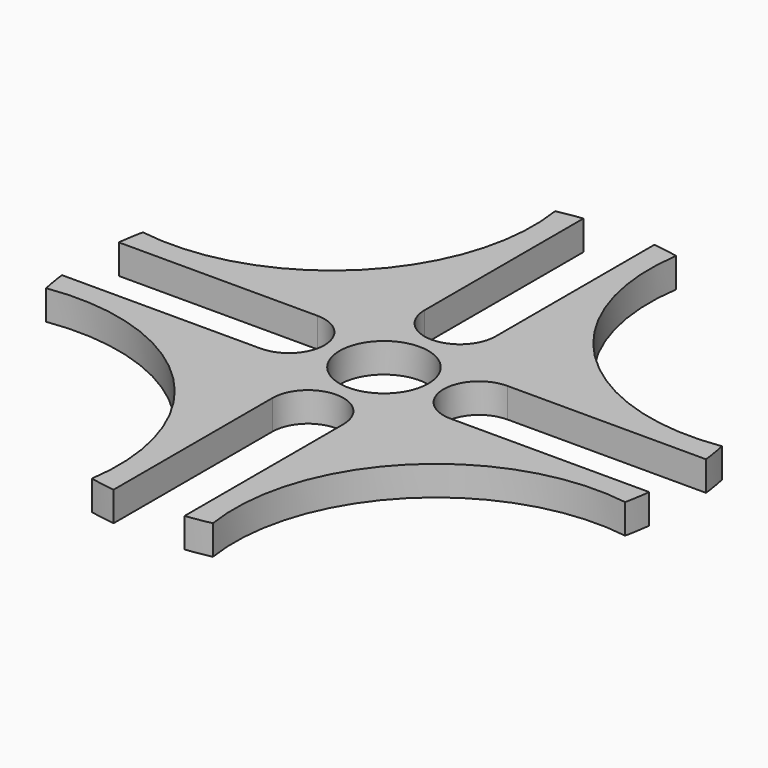
from build123d import *

# Parameters (mm, degrees)
F0_R     = 4.7625
F1_DEPTH = 3.175


with BuildPart() as f1:
    # F0 (on Top) → F1 (new body)
    with BuildSketch(Plane.XY):
        with BuildLine():
            ThreePointArc((-6.49331, 31.078922), (-12.572359, 12.572359), (-31.078922, 6.49331))
            ThreePointArc((-31.078922, 6.49331), (-31.328488, 5.156386), (-31.520571, 3.81))
            Line((-31.520571, 3.81), (-10.200497, 3.81))
            ThreePointArc((-10.200497, 3.81), (-6.390497, 0), (-10.200497, -3.81))
            Line((-10.200497, -3.81), (-31.520571, -3.81))
            ThreePointArc((-31.520571, -3.81), (-31.328488, -5.156386), (-31.078922, -6.49331))
            ThreePointArc((-31.078922, -6.49331), (-12.572359, -12.572359), (-6.49331, -31.078922))
            ThreePointArc((-6.49331, -31.078922), (-5.156386, -31.328488), (-3.81, -31.520571))
            Line((-3.81, -31.520571), (-3.81, -10.200497))
            ThreePointArc((-3.81, -10.200497), (0, -6.390497), (3.81, -10.200497))
            Line((3.81, -10.200497), (3.81, -31.520571))
            ThreePointArc((3.81, -31.520571), (5.156386, -31.328488), (6.49331, -31.078922))
            ThreePointArc((6.49331, -31.078922), (12.572359, -12.572359), (31.078922, -6.49331))
            ThreePointArc((31.078922, -6.49331), (31.328488, -5.156386), (31.520571, -3.81))
            Line((31.520571, -3.81), (10.200497, -3.81))
            ThreePointArc((10.200497, -3.81), (6.390497, 0), (10.200497, 3.81))
            Line((10.200497, 3.81), (31.520571, 3.81))
            ThreePointArc((31.520571, 3.81), (31.328488, 5.156386), (31.078922, 6.49331))
            ThreePointArc((31.078922, 6.49331), (12.572359, 12.572359), (6.49331, 31.078922))
            ThreePointArc((6.49331, 31.078922), (5.156386, 31.328488), (3.81, 31.520571))
            Line((3.81, 31.520571), (3.81, 10.200497))
            ThreePointArc((3.81, 10.200497), (0, 6.390497), (-3.81, 10.200497))
            Line((-3.81, 10.200497), (-3.81, 31.520571))
            ThreePointArc((-3.81, 31.520571), (-5.156386, 31.328488), (-6.49331, 31.078922))
        make_face()
        Circle(F0_R, mode=Mode.SUBTRACT)
    extrude(amount=F1_DEPTH)


solid = f1.part
